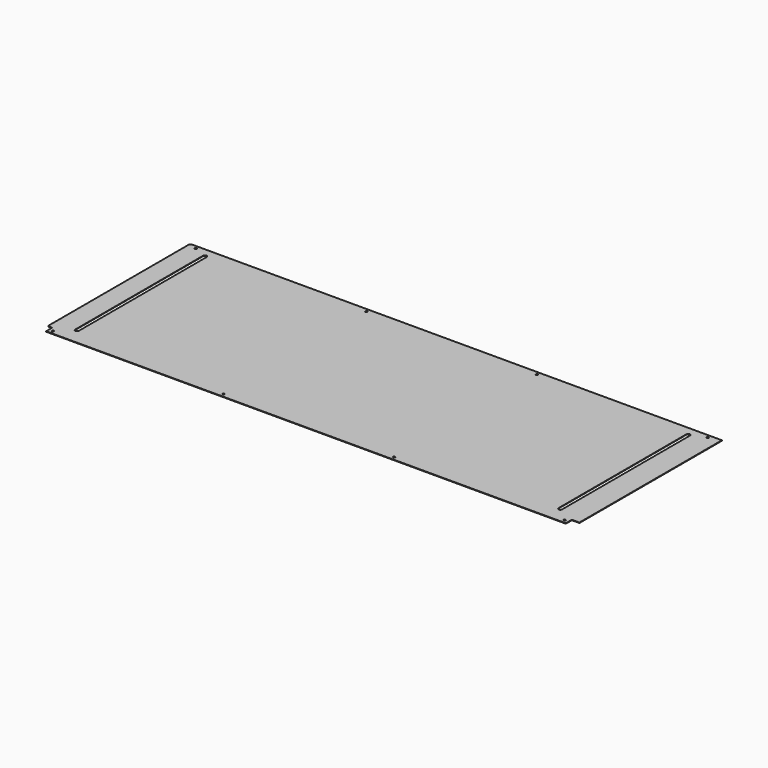
from build123d import *

# Parameters (mm, degrees)
F0_W     = 1857.375
F0_H     = 636.6002
F0_R     = 3.5687
F0_H_2   = 27.0002
F0_W_2   = 27.0002
F1_DEPTH = 1.651


with BuildPart() as f1:
    # F0 (on Top) → F1 (new body)
    with BuildSketch(Plane.XY):
        with BuildLine():
            Line((0, -636.6002), (0, 0))
            Line((0, 0), (-9.525, 0))
            ThreePointArc((-9.525, 0), (-14.015128, -1.859872), (-15.875, -6.35))
            Line((-15.875, -6.35), (-15.875, -630.2502))
            ThreePointArc((-15.875, -630.2502), (-14.015128, -634.740328), (-9.525, -636.6002))
            Line((-9.525, -636.6002), (0, -636.6002))
        make_face()
        with Locations((928.6875, -318.3001)):
            Rectangle(F0_W, F0_H)
        with BuildLine():
            ThreePointArc((57.15, -33.401), (63.5, -27.051), (69.85, -33.401))
            Line((69.85, -33.401), (69.85, -604.901))
            ThreePointArc((69.85, -604.901), (63.5, -611.251), (57.15, -604.901))
            Line((57.15, -604.901), (57.15, -33.401))
        make_face(mode=Mode.SUBTRACT)
        with Locations((14.2748, -12.7)):
            Circle(F0_R, mode=Mode.SUBTRACT)
        with Locations((623.8748, -12.7)):
            Circle(F0_R, mode=Mode.SUBTRACT)
        with BuildLine():
            ThreePointArc((1784.35, -33.401), (1790.7, -27.051), (1797.05, -33.401))
            Line((1797.05, -33.401), (1797.05, -604.901))
            ThreePointArc((1797.05, -604.901), (1790.7, -611.251), (1784.35, -604.901))
            Line((1784.35, -604.901), (1784.35, -33.401))
        make_face(mode=Mode.SUBTRACT)
        with Locations((1233.4748, -12.7)):
            Circle(F0_R, mode=Mode.SUBTRACT)
        with Locations((1843.0748, -12.7)):
            Circle(F0_R, mode=Mode.SUBTRACT)
        with Locations((928.6875, -650.1003)):
            Rectangle(F0_W, F0_H_2)
        with Locations((14.2748, -650.9004)):
            Circle(F0_R, mode=Mode.SUBTRACT)
        with Locations((623.8748, -650.9004)):
            Circle(F0_R, mode=Mode.SUBTRACT)
        with Locations((1233.4748, -650.9004)):
            Circle(F0_R, mode=Mode.SUBTRACT)
        with Locations((1843.0748, -650.9004)):
            Circle(F0_R, mode=Mode.SUBTRACT)
        with Locations((1870.8751, -318.3001)):
            Rectangle(F0_W_2, F0_H)
    extrude(amount=F1_DEPTH)


solid = f1.part
